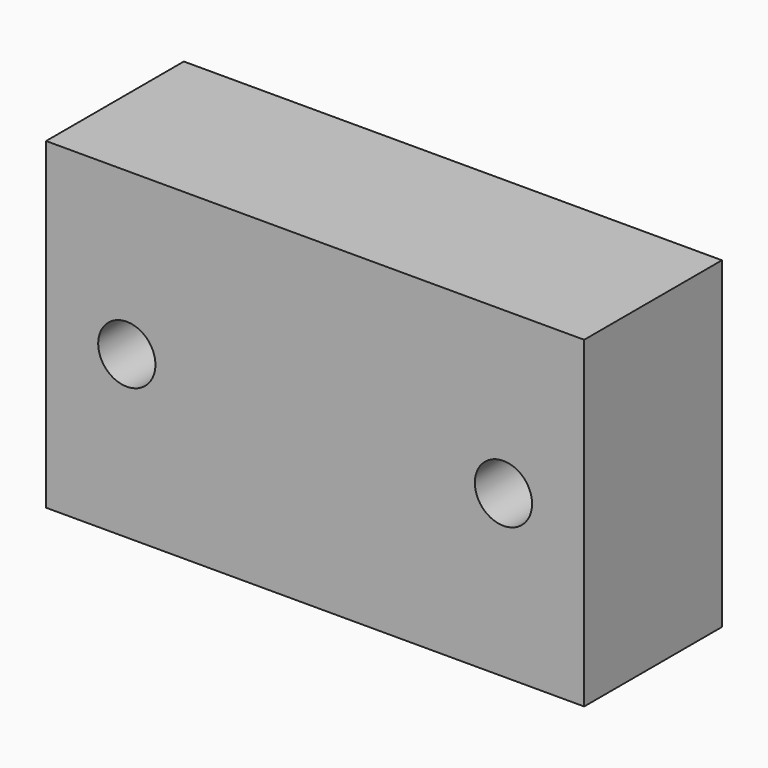
from build123d import *

# Parameters (mm, degrees)
F0_W     = 63.5
F0_H     = 38.1
F1_DEPTH = 20.32
F3_D     = 6.7564


with BuildPart() as f1:
    # F0 (on Front) → F1 (new body)
    with BuildSketch(Plane.XZ):
        with Locations((31.75, 19.05)):
            Rectangle(F0_W, F0_H)
    extrude(amount=-F1_DEPTH)

    # F3 (through all)
    with Locations(Plane.XZ):
        with Locations((9.525, 19.05), (53.975, 19.05)):
            Hole(F3_D / 2)


solid = f1.part
